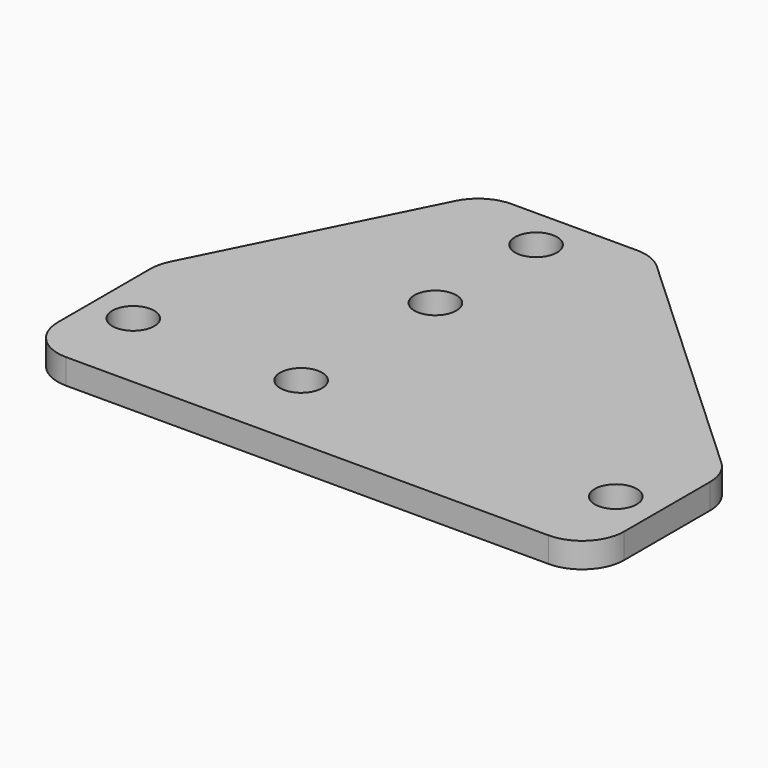
from build123d import *

# Parameters (mm, degrees)
F0_R     = 2.5
F1_DEPTH = 3


with BuildPart() as f1:
    # F0 (on Top) → F1 (new body)
    with BuildSketch(Plane.XY):
        with BuildLine():
            Line((0, 18.81966), (0, 5))
            ThreePointArc((0, 5), (1.464466, 1.464466), (5, 0))
            Line((5, 0), (62.5, 0))
            ThreePointArc((62.5, 0), (66.035534, 1.464466), (67.5, 5))
            Line((67.5, 5), (67.5, 17.810844))
            ThreePointArc((67.5, 17.810844), (67.080229, 19.816211), (65.891401, 21.484861))
            Line((65.891401, 21.484861), (36.436481, 48.674017))
            ThreePointArc((36.436481, 48.674017), (34.865783, 49.65672), (33.045081, 50))
            Line((33.045081, 50), (18.09017, 50))
            ThreePointArc((18.09017, 50), (15.461514, 49.253254), (13.618034, 47.236068))
            Line((13.618034, 47.236068), (0.527864, 21.055728))
            ThreePointArc((0.527864, 21.055728), (0.133755, 19.968425), (0, 18.81966))
        make_face()
        with Locations((5, 10)):
            Circle(F0_R, mode=Mode.SUBTRACT)
        with Locations((25, 10)):
            Circle(F0_R, mode=Mode.SUBTRACT)
        with Locations((62.5, 10)):
            Circle(F0_R, mode=Mode.SUBTRACT)
        with Locations((25, 30)):
            Circle(F0_R, mode=Mode.SUBTRACT)
        with Locations((25, 45)):
            Circle(F0_R, mode=Mode.SUBTRACT)
    extrude(amount=F1_DEPTH)


solid = f1.part
